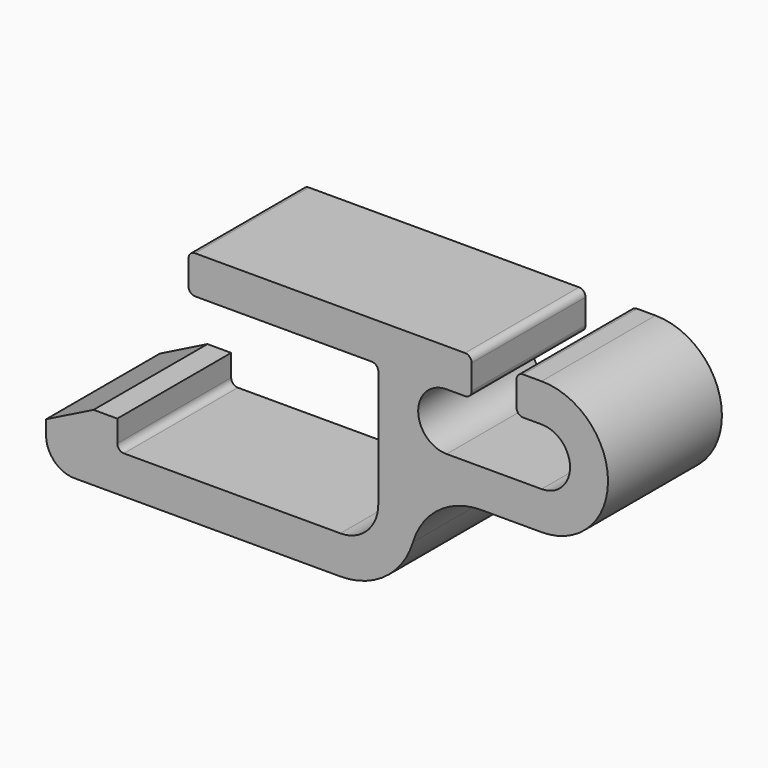
from build123d import *

# Parameters (mm, degrees)
F1_DEPTH = 19.05


with BuildPart() as f1:
    # F0 (on Front) → F1 (new body)
    with BuildSketch(Plane.XZ):
        with BuildLine():
            Line((-24.511, 0), (-0.889, 0))
            ThreePointArc((-0.889, 0), (-0.260382, -0.260382), (0, -0.889))
            Line((0, -0.889), (0, -16.51))
            ThreePointArc((0, -16.51), (-1.487898, -20.102102), (-5.08, -21.59))
            Line((-5.08, -21.59), (-34.036, -21.59))
            ThreePointArc((-34.036, -21.59), (-34.664618, -21.329618), (-34.925, -20.701))
            Line((-34.925, -20.701), (-34.925, -17.78))
            Line((-34.925, -17.78), (-38.1, -17.78))
            Line((-38.1, -17.78), (-44.45, -20.955))
            Line((-44.45, -20.955), (-44.45, -22.86))
            ThreePointArc((-44.45, -22.86), (-43.334077, -25.554077), (-40.64, -26.67))
            Line((-40.64, -26.67), (-5.08, -26.67))
            ThreePointArc((-5.08, -26.67), (0.972143, -24.670708), (4.642397, -19.459677))
            ThreePointArc((4.642397, -19.459677), (8.08326, -14.574336), (13.757144, -12.7))
            Line((13.757144, -12.7), (21.844, -12.7))
            ThreePointArc((21.844, -12.7), (30.734, -3.81), (21.844, 5.08))
            Line((21.844, 5.08), (19.383, 5.08))
            ThreePointArc((19.383, 5.08), (18.754382, 4.819618), (18.494, 4.191))
            Line((18.494, 4.191), (18.494, 0.889))
            ThreePointArc((18.494, 0.889), (18.754382, 0.260382), (19.383, 0))
            Line((19.383, 0), (21.844, 0))
            ThreePointArc((21.844, 0), (25.654, -3.81), (21.844, -7.62))
            Line((21.844, -7.62), (9.144, -7.62))
            ThreePointArc((9.144, -7.62), (5.334, -3.81), (9.144, 0))
            Line((9.144, 0), (11.605, 0))
            ThreePointArc((11.605, 0), (12.233618, 0.260382), (12.494, 0.889))
            Line((12.494, 0.889), (12.494, 4.191))
            ThreePointArc((12.494, 4.191), (12.233618, 4.819618), (11.605, 5.08))
            Line((11.605, 5.08), (-24.511, 5.08))
            ThreePointArc((-24.511, 5.08), (-25.139618, 4.819618), (-25.4, 4.191))
            Line((-25.4, 4.191), (-25.4, 0.889))
            ThreePointArc((-25.4, 0.889), (-25.139618, 0.260382), (-24.511, 0))
        make_face()
    extrude(amount=F1_DEPTH)


solid = f1.part
